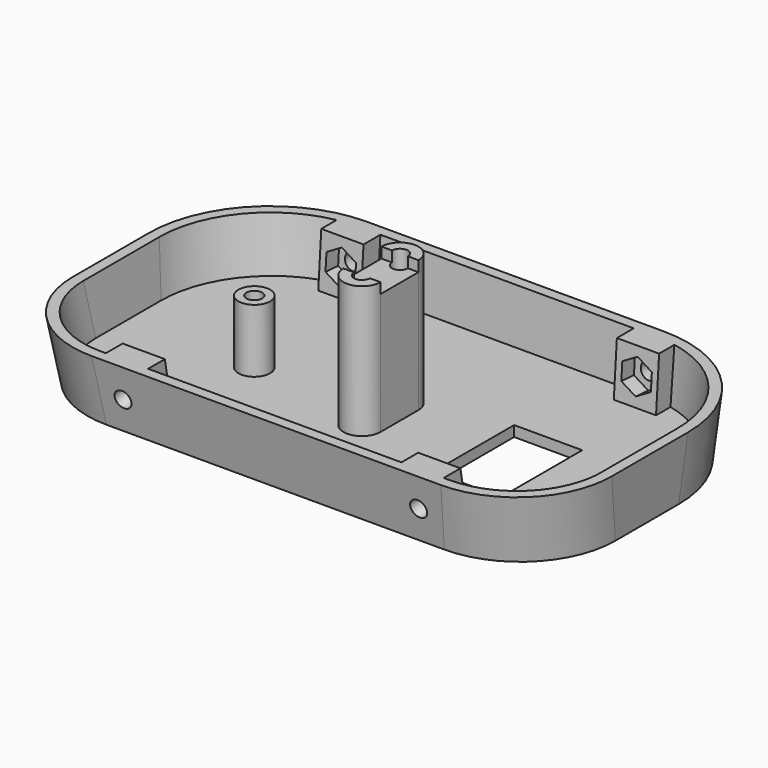
from build123d import *

# Parameters (mm, degrees)
THICKNESS_T          = -2
SKETCH002_W          = 110
SKETCH002_H          = 45
POCKET_DEPTH         = 72.0010001
PAD_DEPTH            = 4
PAD001_DEPTH         = 4
SKETCH005_R          = 1.6
POCKET001_DEPTH      = 8.0508448353
POCKET002_DEPTH      = 3
SKETCH006_R          = 1.6
POCKET003_DEPTH      = 6.8556233581
POCKET004_DEPTH      = 3
SKETCH011_R          = 1.5
PAD002_DEPTH         = 25
SKETCH012_W          = 9
SKETCH012_H          = 2
POCKET007_DEPTH      = 51.0919091909
POCKET007_DEPTH_BACK = 51.0919091909
SKETCH013_R          = 3
SKETCH013_R_2        = 1.5
PAD003_DEPTH         = 12
SKETCH010_W          = 12.9
SKETCH010_H          = 19.2
POCKET006_DEPTH      = 27.001


with BuildPart() as part:
    # Sketch → AdditiveLoft section 0
    with BuildSketch(Plane.XY):
        with BuildLine():
            Line((-27, 68), (27, 68))
            ThreePointArc((50, 45), (43.2634559673, 61.2634559673), (27, 68))
            Line((50, 45), (50, 30))
            ThreePointArc((32, 12), (44.7279220614, 17.2720779386), (50, 30))
            Line((32, 12), (-32, 12))
            ThreePointArc((-50, 30), (-44.7279220614, 17.2720779386), (-32, 12))
            Line((-50, 30), (-50, 45))
            ThreePointArc((-27, 68), (-43.2634559673, 61.2634559673), (-50, 45))
        make_face()
    # Sketch001 → AdditiveLoft section 1
    with BuildSketch(Plane.XY.offset(55)):
        with BuildLine():
            Line((-32, 72), (32, 72))
            ThreePointArc((55, 49), (48.2634559673, 65.2634559673), (32, 72))
            Line((55, 49), (55, 20))
            ThreePointArc((37, 2), (49.7279220614, 7.2720779386), (55, 20))
            Line((37, 2), (-37, 2))
            ThreePointArc((-55, 20), (-49.7279220614, 7.2720779386), (-37, 2))
            Line((-55, 20), (-55, 49))
            ThreePointArc((-32, 72), (-48.2634559673, 65.2634559673), (-55, 49))
        make_face()
    loft()

    # Thickness
    thickness_openings = [part.faces().sort_by_distance(p)[0] for p in [
        (0, 36.662908, 55),
    ]]
    offset(amount=THICKNESS_T, openings=thickness_openings)

    # Sketch002 → Pocket (cut, through all)
    with BuildSketch(Plane.XZ):
        with Locations((0, 34.5)):
            Rectangle(SKETCH002_W, SKETCH002_H)
    extrude(amount=-POCKET_DEPTH, mode=Mode.SUBTRACT)

    # Sketch003 → Pad (join, symmetric)
    with BuildSketch(Plane.YZ.offset(28)):
        Polygon((13.6363636364, 2), (11.8181818182, 12), (15.8181818182, 12), (17.6363636364, 2), align=None)
        Polygon((62.1454545455, 2), (62.8727272727, 12), (66.8727272727, 12), (66.1454545455, 2), align=None)
    extrude(amount=PAD_DEPTH, both=True)

    # Sketch004 → Pad001 (join, symmetric)
    with BuildSketch(Plane.YZ.offset(-28)):
        Polygon((13.6363636364, 2), (11.8181818182, 12), (15.8181818182, 12), (17.6363636364, 2), align=None)
        Polygon((62.8727272727, 12), (66.8727272727, 12), (66.1454545455, 2), (62.1454545455, 2), align=None)
    extrude(amount=PAD001_DEPTH, both=True)

    # Sketch005 (on DatumPlane) → Pocket001 (cut, through all)
    with BuildSketch(Plane(origin=(0, 18, 0), x_dir=(-1, 0, 0), z_dir=(0, 0.9838699101, 0.1788854382))):
        with Locations((-28, 7.1147617466)):
            Circle(SKETCH005_R)
        with Locations((28, 7.1147617466)):
            Circle(SKETCH005_R)
    extrude(amount=-POCKET001_DEPTH, mode=Mode.SUBTRACT)

    # Sketch007 (on DatumPlane) → Pocket002 (cut)
    with BuildSketch(Plane(origin=(0, 18, 0), x_dir=(-1, 0, 0), z_dir=(0, 0.9838699101, 0.1788854382))):
        Polygon((-25.2, 5.4981809929), (-25.2, 8.7313425003), (-28, 10.3479232541), (-30.8, 8.7313425003), (-30.8, 5.4981809929), (-28, 3.8816002391), align=None)
        Polygon((28, 10.3479232541), (25.2, 8.7313425003), (25.2, 5.4981809929), (28, 3.8816002391), (30.8, 5.4981809929), (30.8, 8.7313425003), align=None)
    extrude(amount=-POCKET002_DEPTH, mode=Mode.SUBTRACT)

    # Sketch006 (on DatumPlane) → Pocket003 (cut, through all)
    with BuildSketch(Plane(origin=(0, 62, 0), x_dir=(1, 0, 0), z_dir=(0, -0.997365817, 0.0725356958))):
        with Locations((28.0243651118, 7.0326465046)):
            Circle(SKETCH006_R)
        with Locations((-28.0243651118, 7.0326465046)):
            Circle(SKETCH006_R)
    extrude(amount=-POCKET003_DEPTH, mode=Mode.SUBTRACT)

    # Sketch008 (on DatumPlane) → Pocket004 (cut)
    with BuildSketch(Plane(origin=(0, 62, 0), x_dir=(1, 0, 0), z_dir=(0, -0.997365817, 0.0725356958))):
        Polygon((-28.0243651118, 10.265808012), (-30.8243651118, 8.6492272583), (-30.8243651118, 5.4160657508), (-28.0243651118, 3.7994849971), (-25.2243651118, 5.4160657508), (-25.2243651118, 8.6492272583), align=None)
        Polygon((28.0243651118, 10.265808012), (25.2243651118, 8.6492272583), (25.2243651118, 5.4160657508), (28.0243651118, 3.7994849971), (30.8243651118, 5.4160657508), (30.8243651118, 8.6492272583), align=None)
    extrude(amount=-POCKET004_DEPTH, mode=Mode.SUBTRACT)

    # Sketch011 → Pad002 (join)
    with BuildSketch(Plane.XY.offset(2)):
        with BuildLine():
            ThreePointArc((3.5, 41.5), (0, 45), (-3.5, 41.5))
            Line((-3.5, 41.5), (-3.5, 32.5))
            ThreePointArc((-3.5, 32.5), (0, 29), (3.5, 32.5))
            Line((3.5, 41.5), (3.5, 32.5))
        make_face()
        with Locations((0, 32.5)):
            Circle(SKETCH011_R, mode=Mode.SUBTRACT)
        with Locations((0, 41.5)):
            Circle(SKETCH011_R, mode=Mode.SUBTRACT)
    extrude(amount=PAD002_DEPTH)

    # Sketch012 → Pocket007 (cut, two sides)
    with BuildSketch(Plane.YZ) as pocket007_sk:
        with Locations((37, 26)):
            Rectangle(SKETCH012_W, SKETCH012_H)
    extrude(amount=-POCKET007_DEPTH, mode=Mode.SUBTRACT)
    extrude(pocket007_sk.sketch, amount=POCKET007_DEPTH_BACK, mode=Mode.SUBTRACT)

    # Sketch013 → Pad003 (join)
    with BuildSketch(Plane.XY.offset(2)):
        with Locations((-24, 37)):
            Circle(SKETCH013_R)
        with Locations((-24, 37)):
            Circle(SKETCH013_R_2, mode=Mode.SUBTRACT)
    extrude(amount=PAD003_DEPTH)

    # Sketch010 → Pocket006 (cut, through all)
    with BuildSketch(Plane.XY):
        with Locations((24, 37)):
            Rectangle(SKETCH010_W, SKETCH010_H)
    extrude(amount=POCKET006_DEPTH, mode=Mode.SUBTRACT)


solid = part.part
